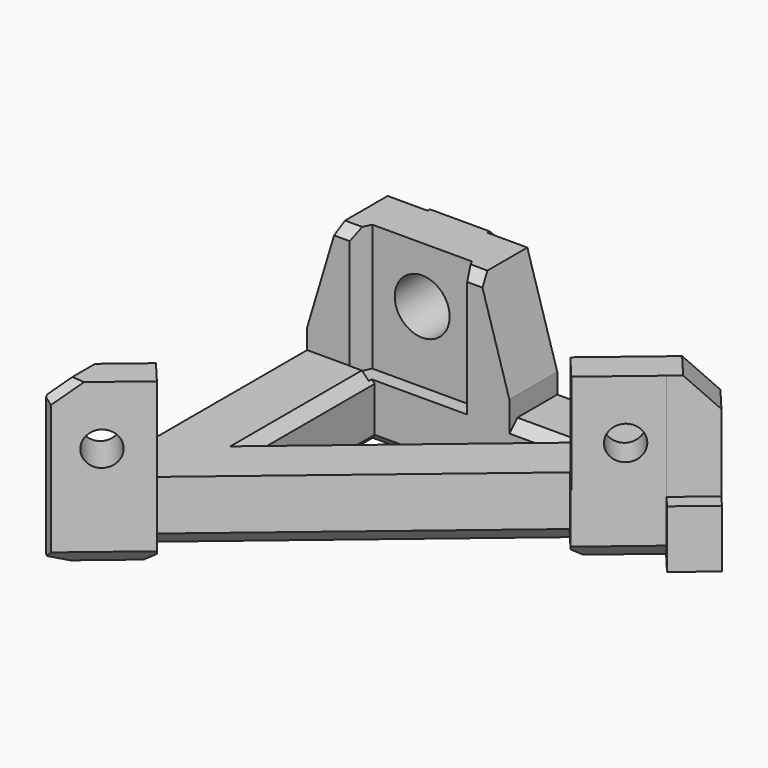
from build123d import *

# Parameters (mm, degrees)
PAD020_DEPTH     = 18.5
POCKET047_DEPTH  = 13
POCKET048_DEPTH  = 5
POCKET049_DEPTH  = 15
SKETCH088_R      = 2.75
POCKET050_DEPTH  = 12
SKETCH089_R      = 1.7
POCKET051_DEPTH  = 5
CHAMFER_SIZE     = 3
CHAMFER036_SIZE2 = 3
CHAMFER036_SIZE  = 10
CHAMFER037_SIZE2 = 10
CHAMFER037_SIZE  = 3
CHAMFER038_SIZE  = 1
CHAMFER039_SIZE  = 1
CHAMFER040_SIZE  = 1.5
CHAMFER041_SIZE  = 1
CHAMFER042_SIZE  = 1
CHAMFER043_SIZE  = 1
CHAMFER044_SIZE  = 1
CHAMFER045_SIZE  = 1.5
CHAMFER046_SIZE  = 1
CHAMFER047_SIZE  = 1
CHAMFER048_SIZE  = 1.5
CHAMFER049_SIZE  = 1
CHAMFER050_SIZE  = 1


with BuildPart() as part:
    # Sketch084 → Pad020 (new body)
    with BuildSketch(Plane.XY):
        Polygon((0, 38.8), (8, 38.8), (8, 40.6), (14, 40.6), (14, 38.8), (28, 38.8), (28, 40.6), (34, 40.6), (34, 38.7761214391), (37.3, 38.7761214391), (41.9953022309, 33.1864759261), (38.7027713123, 30.4207499545), (37.673663974, 31.6458777382), (31.9308774881, 26.82193709), (30.0013012288, 29.1190516844), (5.1924636096, 8.2796280843), (7.1220398689, 5.9825134899), (0, 0), align=None)
        Polygon((7.5, 32.8), (7.5, 18.1), (25, 32.8), align=None, mode=Mode.SUBTRACT)
    extrude(amount=PAD020_DEPTH)

    # Sketch085 → Pocket047 (cut)
    with BuildSketch(Plane.XY.offset(6.5)):
        Polygon((0, 5.9744797055), (4.1823490341, 9.4838872374), (7.132775333, 5.967706096), (31.9875690904, 26.8233543707), (29.8491428651, 29.3718315072), (38.9102049805, 36.9749653863), (34.8909759819, 41.7648959848), (21, 41.7648959848), (21, 32.458794), (1, 32.458794), (1, 41.759258), (0, 41.764896), align=None)
    extrude(amount=POCKET047_DEPTH, mode=Mode.SUBTRACT)

    # Sketch086 → Pocket048 (cut)
    with BuildSketch(Plane.XY.offset(16.5)):
        Polygon((-0.8541061726, -4.3526620467), (49.194970654, 37.6434998606), (44.0526697777, 43.7718554052), (-5.9964070501, 1.7756934982), align=None)
    extrude(amount=POCKET048_DEPTH, mode=Mode.SUBTRACT)

    # Sketch087 → Pocket049 (cut)
    with BuildSketch(Plane.XY.offset(5.8)):
        Polygon((37.0972154509, 31.1536445146), (41.470166846, 34.8229864174), (44.3478623025, 31.3934825187), (39.9749109074, 27.724140616), align=None)
        Polygon((6.1, 34.25), (16.1, 34.25), (16.9452365235, 32.4373844259), (5.2547634765, 32.4373844259), align=None)
    extrude(amount=POCKET049_DEPTH, mode=Mode.SUBTRACT)

    # Sketch088 → Pocket050 (cut)
    with BuildSketch(Plane.XZ.offset(-30)):
        with Locations((11.1, 12.9)):
            Circle(SKETCH088_R)
    extrude(amount=-POCKET050_DEPTH, mode=Mode.SUBTRACT)

    # Sketch089 → Pocket051 (cut)
    with BuildSketch(Plane(origin=(0, 0, 0), x_dir=(0.7657048648, 0.6431920864, 0), z_dir=(0.6431920864, -0.7657048648, 0))):
        with Locations((5, 10.6)):
            Circle(SKETCH089_R)
        with Locations((46, 10.6)):
            Circle(SKETCH089_R)
    extrude(amount=-POCKET051_DEPTH, mode=Mode.SUBTRACT)

    # Chamfer
    chamfer_edges = [part.edges().sort_by_distance(p)[0] for p in [
        (39.912516, 35.665983, 16.5),
    ]]
    chamfer(chamfer_edges, length=CHAMFER_SIZE)

    # Chamfer036
    chamfer036_edges = [part.edges().sort_by_distance(p)[0] for p in [
        (21, 35.8, 18.5),
    ]]
    chamfer036_side = part.faces().sort_by_distance((21, 35.8, 12.5))[0]
    chamfer(chamfer036_edges, length=CHAMFER036_SIZE, length2=CHAMFER036_SIZE2, reference=chamfer036_side)

    # Chamfer037
    chamfer037_edges = [part.edges().sort_by_distance(p)[0] for p in [
        (1, 35.629397, 18.5),
    ]]
    chamfer037_side = part.faces().sort_by_distance((9.318343, 36.537604, 18.5))[0]
    chamfer(chamfer037_edges, length=CHAMFER037_SIZE, length2=CHAMFER037_SIZE2, reference=chamfer037_side)

    # Chamfer038
    chamfer038_edges = [part.edges().sort_by_distance(p)[0] for p in [
        (16.25, 25.45, 6.5),
        (7.5, 25.268692, 6.5),
        (23, 32.8, 6.5),
    ]]
    chamfer(chamfer038_edges, length=CHAMFER038_SIZE)

    # Chamfer039
    chamfer039_edges = [part.edges().sort_by_distance(p)[0] for p in [
        (17.388073, 32.8, 18.5),
        (4.632373, 32.458794, 18.5),
    ]]
    chamfer(chamfer039_edges, length=CHAMFER039_SIZE)

    # Chamfer040
    chamfer040_edges = [part.edges().sort_by_distance(p)[0] for p in [
        (31, 40.6, 6.5),
        (11, 40.6, 18.5),
    ]]
    chamfer(chamfer040_edges, length=CHAMFER040_SIZE)

    # Chamfer041
    chamfer041_edges = [part.edges().sort_by_distance(p)[0] for p in [
        (38.076586, 37.851615, 6.5),
    ]]
    chamfer(chamfer041_edges, length=CHAMFER041_SIZE)

    # Chamfer042
    chamfer042_edges = [part.edges().sort_by_distance(p)[0] for p in [
        (0, 22.38724, 6.5),
        (0, 19.4, 0),
    ]]
    chamfer(chamfer042_edges, length=CHAMFER042_SIZE)

    # Chamfer043
    chamfer043_edges = [part.edges().sort_by_distance(p)[0] for p in [
        (0, 38.8, 3.25),
    ]]
    chamfer(chamfer043_edges, length=CHAMFER043_SIZE)

    # Chamfer044
    chamfer044_edges = [part.edges().sort_by_distance(p)[0] for p in [
        (0, 0, 8.75),
    ]]
    chamfer(chamfer044_edges, length=CHAMFER044_SIZE)

    # Chamfer045
    chamfer045_edges = [part.edges().sort_by_distance(p)[0] for p in [
        (2.091175, 7.729183, 16.5),
        (0, 3.48724, 16.5),
    ]]
    chamfer(chamfer045_edges, length=CHAMFER045_SIZE)

    # Chamfer046
    chamfer046_edges = [part.edges().sort_by_distance(p)[0] for p in [
        (1.132852, 0.951596, 16.132852),
    ]]
    chamfer(chamfer046_edges, length=CHAMFER046_SIZE)

    # Chamfer047
    chamfer047_edges = [part.edges().sort_by_distance(p)[0] for p in [
        (16.25, 25.45, 0),
        (16.25, 32.8, 0),
        (7.5, 25.45, 0),
    ]]
    chamfer(chamfer047_edges, length=CHAMFER047_SIZE)

    # Chamfer048
    chamfer048_edges = [part.edges().sort_by_distance(p)[0] for p in [
        (4.06102, 3.411257, 0),
        (17.596882, 18.69934, 0),
        (34.802271, 29.233907, 0),
    ]]
    chamfer(chamfer048_edges, length=CHAMFER048_SIZE)

    # Chamfer049
    chamfer049_edges = [part.edges().sort_by_distance(p)[0] for p in [
        (30.483695, 28.544773, 0),
        (29.518907, 29.69333, 0),
    ]]
    chamfer(chamfer049_edges, length=CHAMFER049_SIZE)

    # Chamfer050
    chamfer050_edges = [part.edges().sort_by_distance(p)[0] for p in [
        (4.71007, 8.853907, 0),
    ]]
    chamfer(chamfer050_edges, length=CHAMFER050_SIZE)


with BuildPart() as part_1:
    # Body016 placement: moved
    add(part.part.moved(Location((57, 0, 0))))


solid = part_1.part
